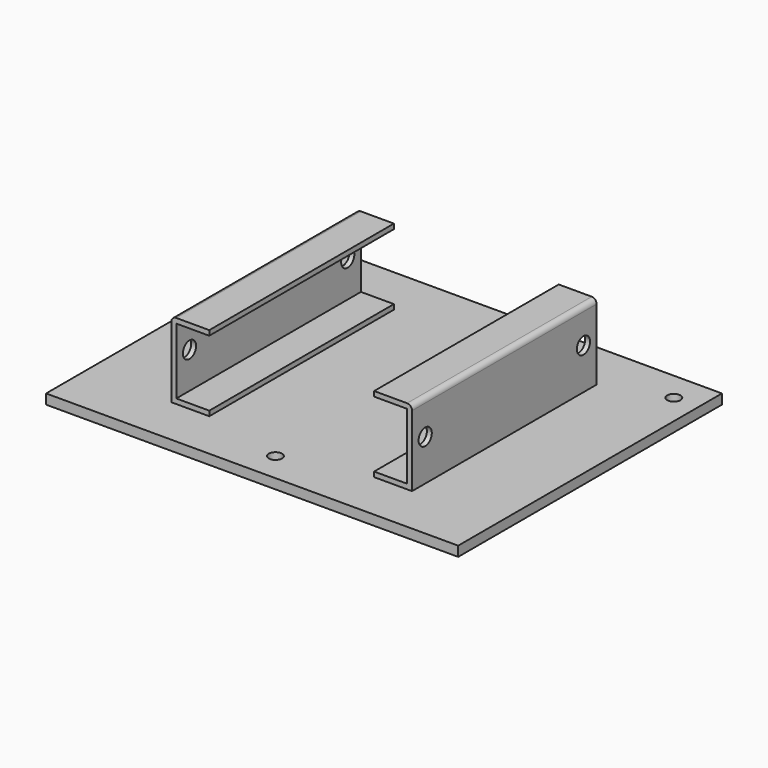
from build123d import *

# Parameters (mm, degrees)
F0_W     = 125
F0_H     = 100
F0_R     = 2
F1_DEPTH = 3
F4_DEPTH = 70
F5_R     = 2.5
F6_DEPTH = 99.001
F7_R     = 1.5


with BuildPart() as f1:
    # F0 (on Top) → F1 (new body)
    with BuildSketch(Plane.XY):
        Rectangle(F0_W, F0_H)
        with Locations((0, -41.15)):
            Circle(F0_R, mode=Mode.SUBTRACT)
        with Locations((-55, 41.15)):
            Circle(F0_R, mode=Mode.SUBTRACT)
        with Locations((55, 41.15)):
            Circle(F0_R, mode=Mode.SUBTRACT)
    extrude(amount=F1_DEPTH)

    # F3 (on offset) → F4 (join)
    with BuildSketch(Plane.XZ.offset(35)):
        Polygon((35, 24.5), (35, 4.5), (25, 4.5), (25, 3), (36.5, 3), (36.5, 26), (25, 26), (25, 24.5), align=None)
        Polygon((-36.5, 26), (-36.5, 3), (-25, 3), (-25, 4.5), (-35, 4.5), (-35, 24.5), (-25, 24.5), (-25, 26), align=None)
    extrude(amount=-F4_DEPTH)

    # F5 (on face) → F6 (cut, through all)
    with BuildSketch(Plane.YZ.offset(36.5)):
        with Locations((-30, 15.5)):
            Circle(F5_R)
        with Locations((30, 15.5)):
            Circle(F5_R)
    extrude(amount=-F6_DEPTH, mode=Mode.SUBTRACT)

    # F7
    f7_edges = [f1.edges().sort_by_distance(p)[0] for p in [
        (36.5, 0, 26),
        (-36.5, 0, 26),
    ]]
    fillet(f7_edges, radius=F7_R)


solid = f1.part
